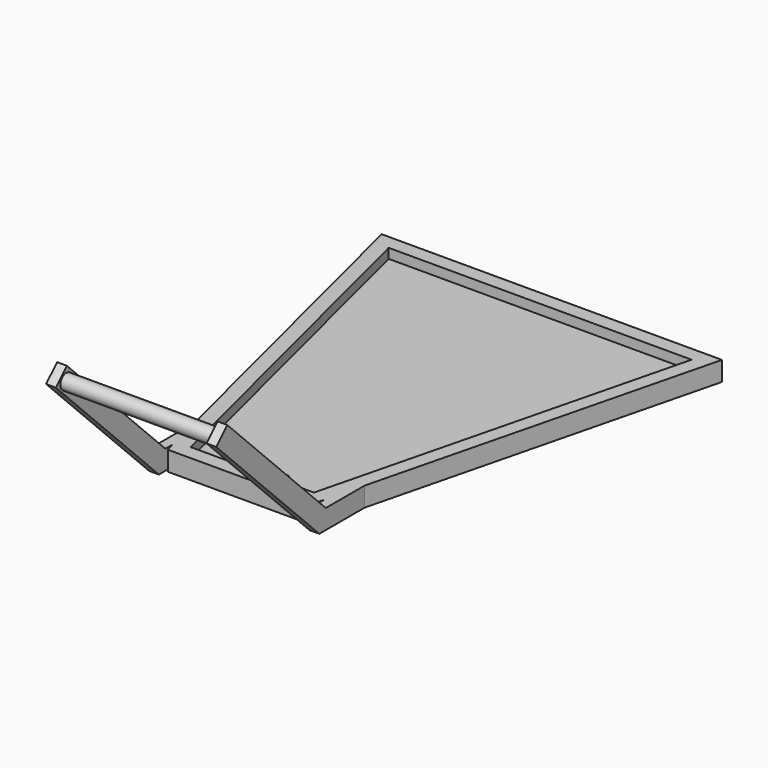
from build123d import *

# Parameters (mm, degrees)
PAD065_DEPTH    = 4
PAD066_DEPTH    = 4
PAD067_DEPTH    = 4
SKETCH128_R     = 3.114724
PAD068_DEPTH    = 62
SKETCH129_R     = 2.15
POCKET018_DEPTH = 4.001


with BuildPart() as part:
    # Sketch125 → Pad065 (new body)
    with BuildSketch(Plane.XY):
        Polygon((70, 160), (-70, 160), (-30, 0), (30, 0), align=None)
    extrude(amount=PAD065_DEPTH)

    # Sketch126 (on Face6 of Pad065) → Pad066 (join)
    with BuildSketch(Plane.XY.offset(4)):
        Polygon((-30, 0), (-70, 160), (70, 160), (30, 0), align=None)
        Polygon((-62.315342, 154), (-25.315342, 6), (25.315342, 6), (62.315342, 154), align=None, mode=Mode.SUBTRACT)
    extrude(amount=PAD066_DEPTH)

    # Sketch127 → Pad067 (join)
    with BuildSketch(Plane.YZ.offset(35)):
        Polygon((0, 0), (-3.313708, 0), (-56.346717, 53.033009), (-50.689863, 58.689863), (0, 8), (21, 8), (21, 0), align=None)
    pad067 = extrude(amount=-PAD067_DEPTH)

    # Mirrored006: Pad067 across YZ
    add(pad067.mirror(Plane.YZ))

    # Sketch128 (on Face28 of MultiTransform005) → Pad068 (join)
    with BuildSketch(Plane(origin=(31, 0, 0), x_dir=(0, -1, 0), z_dir=(-1, 0, 0))):
        with Locations((50.926114, 53.082153)):
            Circle(SKETCH128_R)
    extrude(amount=PAD068_DEPTH)

    # Sketch129 (on Face40 of Pad068) → Pocket018 (cut, through all)
    with BuildSketch(Plane.XY.offset(4)):
        with Locations((-6, 14)):
            Circle(SKETCH129_R)
        with Locations((6, 14)):
            Circle(SKETCH129_R)
    extrude(amount=-POCKET018_DEPTH, mode=Mode.SUBTRACT)


with BuildPart() as part_1:
    # Body029 placement: moved
    add(part.part.moved(Location((0, 19.5, -185.5))))


solid = part_1.part
